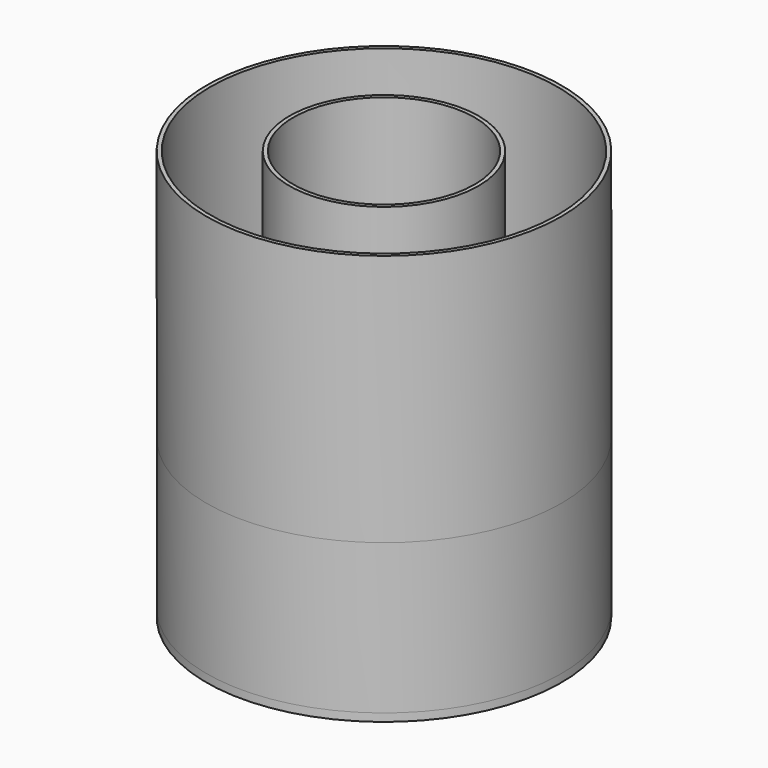
from build123d import *

# Parameters (mm, degrees)
BINDER_R      = 24
PAD002_DEPTH  = 1
SKETCH_R      = 24
SKETCH_R_2    = 23
PAD_DEPTH     = 64
SKETCH001_R   = 45
SKETCH001_R_2 = 44
PAD001_DEPTH  = 64
BINDER001_R   = 45
BINDER001_R_2 = 44
PAD003_DEPTH  = 40
BINDER002_R   = 45
PAD004_DEPTH  = 2


with BuildPart() as body:
    # Binder → Pad002 (new body)
    with BuildSketch(Plane(origin=(0, 0, 0), x_dir=(0, 1, 0), z_dir=(0, 0, 1))):
        Circle(BINDER_R)
    extrude(amount=PAD002_DEPTH)


with BuildPart() as pad:
    # Sketch → Pad (new body)
    with BuildSketch(Plane.XY):
        Circle(SKETCH_R)
        Circle(SKETCH_R_2, mode=Mode.SUBTRACT)
    extrude(amount=PAD_DEPTH)


with BuildPart() as body001:
    # Sketch001 → Pad001 (new body)
    with BuildSketch(Plane.XY):
        Circle(SKETCH001_R)
        Circle(SKETCH001_R_2, mode=Mode.SUBTRACT)
    extrude(amount=PAD001_DEPTH)

    # Binder001 → Pad003 (join)
    with BuildSketch(Plane(origin=(0, 0, 0), x_dir=(0, 1, 0), z_dir=(0, 0, 1))):
        Circle(BINDER001_R)
        Circle(BINDER001_R_2, mode=Mode.SUBTRACT)
    extrude(amount=-PAD003_DEPTH)

    # Binder002 → Pad004 (join)
    with BuildSketch(Plane(origin=(0, 0, -40), x_dir=(0, 1, 0), z_dir=(0, 0, 1))):
        Circle(BINDER002_R)
    extrude(amount=PAD004_DEPTH)


solid = Compound([body.part, pad.part, body001.part])
